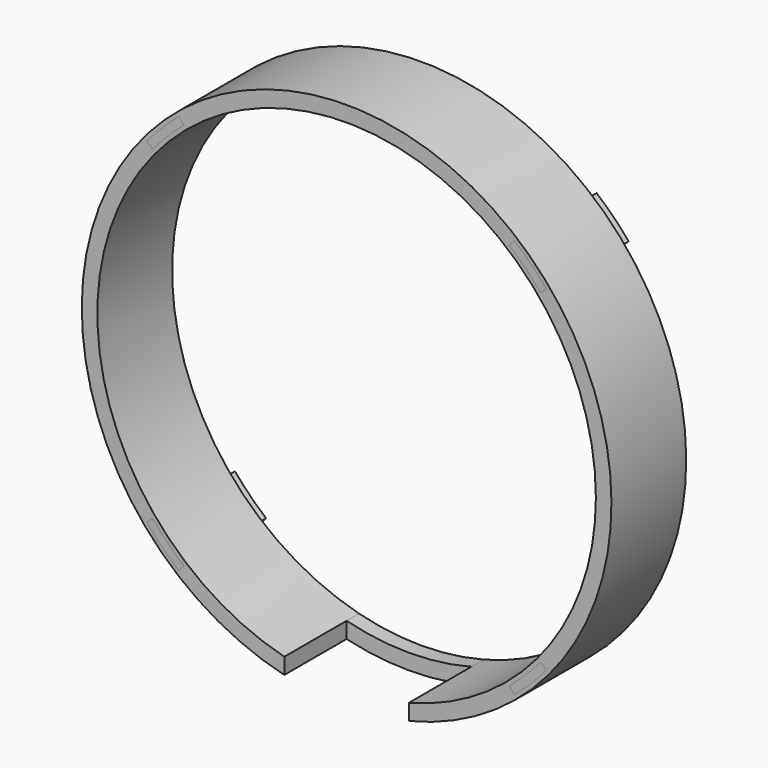
from build123d import *

# Parameters (mm, degrees)
F1_DEPTH = 30
F2_DEPTH = 3
F3_DEPTH = 30
F4_DEPTH = 30
F5_DEPTH = 5


with BuildPart() as f1:
    # F0 (on Front) → F1 (new body)
    with BuildSketch(Plane.XZ):
        with BuildLine():
            ThreePointArc((-20, -77.4596669241), (-48.9897948557, 63.2455532034), (80, 0))
            ThreePointArc((80, 0), (63.2455532034, -48.9897948557), (20, -77.4596669241))
            Line((20, -77.4596669241), (20, -82.6135582093))
            ThreePointArc((20, -82.6135582093), (66.8019460794, -52.5594901041), (85, 0))
            ThreePointArc((85, 0), (-52.5594901041, 66.8019460794), (-20, -82.6135582093))
            Line((-20, -82.6135582093), (-20, -77.4596669241))
        make_face()
        with BuildLine():
            ThreePointArc((-53.8334623112, -64.1562221112), (-59.2201929244, -59.2201929244), (-64.1562221112, -53.8334623112))
            Line((-64.1562221112, -53.8334623112), (-62.2411110034, -52.226493287))
            ThreePointArc((-62.2411110034, -52.226493287), (-57.4524259714, -57.4524259714), (-52.226493287, -62.2411110034))
            Line((-52.226493287, -62.2411110034), (-53.8334623112, -64.1562221112))
        make_face(mode=Mode.SUBTRACT)
        with BuildLine():
            Line((53.8334623112, -64.1562221112), (52.226493287, -62.2411110034))
            ThreePointArc((52.226493287, -62.2411110034), (57.4524259714, -57.4524259714), (62.2411110034, -52.226493287))
            Line((62.2411110034, -52.226493287), (64.1562221112, -53.8334623112))
            ThreePointArc((64.1562221112, -53.8334623112), (59.2201929244, -59.2201929244), (53.8334623112, -64.1562221112))
        make_face(mode=Mode.SUBTRACT)
        with BuildLine():
            ThreePointArc((-64.1562221112, 53.8334623112), (-59.2201929244, 59.2201929244), (-53.8334623112, 64.1562221112))
            Line((-53.8334623112, 64.1562221112), (-52.226493287, 62.2411110034))
            ThreePointArc((-52.226493287, 62.2411110034), (-57.4524259714, 57.4524259714), (-62.2411110034, 52.226493287))
            Line((-62.2411110034, 52.226493287), (-64.1562221112, 53.8334623112))
        make_face(mode=Mode.SUBTRACT)
        with BuildLine():
            ThreePointArc((53.8334623112, 64.1562221112), (59.2201929244, 59.2201929244), (64.1562221112, 53.8334623112))
            Line((64.1562221112, 53.8334623112), (62.2411110034, 52.226493287))
            ThreePointArc((62.2411110034, 52.226493287), (57.4524259714, 57.4524259714), (52.226493287, 62.2411110034))
            Line((52.226493287, 62.2411110034), (53.8334623112, 64.1562221112))
        make_face(mode=Mode.SUBTRACT)
        with BuildLine():
            ThreePointArc((20, -77.4596669241), (0, -80), (-20, -77.4596669241))
            Line((-20, -77.4596669241), (-20, -82.6135582093))
            ThreePointArc((-20, -82.6135582093), (0, -85), (20, -82.6135582093))
            Line((20, -82.6135582093), (20, -77.4596669241))
        make_face()
    extrude(amount=F1_DEPTH)

    # F0 (on Front) → F4 (cut)
    with BuildSketch(Plane.XZ):
        with BuildLine():
            ThreePointArc((20, -77.4596669241), (0, -80), (-20, -77.4596669241))
            Line((-20, -77.4596669241), (-20, -82.6135582093))
            ThreePointArc((-20, -82.6135582093), (0, -85), (20, -82.6135582093))
            Line((20, -82.6135582093), (20, -77.4596669241))
        make_face()
    extrude(amount=F4_DEPTH, mode=Mode.SUBTRACT)

    # F0 (on Front) → F5 (join)
    with BuildSketch(Plane.XZ):
        with BuildLine():
            ThreePointArc((20, -77.4596669241), (0, -80), (-20, -77.4596669241))
            Line((-20, -77.4596669241), (-20, -82.6135582093))
            ThreePointArc((-20, -82.6135582093), (0, -85), (20, -82.6135582093))
            Line((20, -82.6135582093), (20, -77.4596669241))
        make_face()
    extrude(amount=F5_DEPTH)


with BuildPart() as f2:
    # F0 (on Front) → F2 (new body)
    with BuildSketch(Plane.XZ):
        with BuildLine():
            Line((-52.226493287, 62.2411110034), (-53.8334623112, 64.1562221112))
            ThreePointArc((-53.8334623112, 64.1562221112), (-59.2201929244, 59.2201929244), (-64.1562221112, 53.8334623112))
            Line((-64.1562221112, 53.8334623112), (-62.2411110034, 52.226493287))
            ThreePointArc((-62.2411110034, 52.226493287), (-57.4524259714, 57.4524259714), (-52.226493287, 62.2411110034))
        make_face()
    extrude(amount=-F2_DEPTH)


with BuildPart() as f2b:
    # F0 (on Front) → F2, piece 2 (new body)
    with BuildSketch(Plane.XZ):
        with BuildLine():
            Line((62.2411110034, 52.226493287), (64.1562221112, 53.8334623112))
            ThreePointArc((64.1562221112, 53.8334623112), (59.2201929244, 59.2201929244), (53.8334623112, 64.1562221112))
            Line((53.8334623112, 64.1562221112), (52.226493287, 62.2411110034))
            ThreePointArc((52.226493287, 62.2411110034), (57.4524259714, 57.4524259714), (62.2411110034, 52.226493287))
        make_face()
    extrude(amount=-F2_DEPTH)


with BuildPart() as f2c:
    # F0 (on Front) → F2, piece 3 (new body)
    with BuildSketch(Plane.XZ):
        with BuildLine():
            ThreePointArc((62.2411110034, -52.226493287), (57.4524259714, -57.4524259714), (52.226493287, -62.2411110034))
            Line((52.226493287, -62.2411110034), (53.8334623112, -64.1562221112))
            ThreePointArc((53.8334623112, -64.1562221112), (59.2201929244, -59.2201929244), (64.1562221112, -53.8334623112))
            Line((64.1562221112, -53.8334623112), (62.2411110034, -52.226493287))
        make_face()
    extrude(amount=-F2_DEPTH)


with BuildPart() as f2d:
    # F0 (on Front) → F2, piece 4 (new body)
    with BuildSketch(Plane.XZ):
        with BuildLine():
            Line((-62.2411110034, -52.226493287), (-64.1562221112, -53.8334623112))
            ThreePointArc((-64.1562221112, -53.8334623112), (-59.2201929244, -59.2201929244), (-53.8334623112, -64.1562221112))
            Line((-53.8334623112, -64.1562221112), (-52.226493287, -62.2411110034))
            ThreePointArc((-52.226493287, -62.2411110034), (-57.4524259714, -57.4524259714), (-62.2411110034, -52.226493287))
        make_face()
    extrude(amount=-F2_DEPTH)


with BuildPart() as f3:
    # F0 (on Front) → F3 (new body)
    with BuildSketch(Plane.XZ):
        with BuildLine():
            Line((-52.226493287, 62.2411110034), (-53.8334623112, 64.1562221112))
            ThreePointArc((-53.8334623112, 64.1562221112), (-59.2201929244, 59.2201929244), (-64.1562221112, 53.8334623112))
            Line((-64.1562221112, 53.8334623112), (-62.2411110034, 52.226493287))
            ThreePointArc((-62.2411110034, 52.226493287), (-57.4524259714, 57.4524259714), (-52.226493287, 62.2411110034))
        make_face()
    extrude(amount=F3_DEPTH)


with BuildPart() as f3b:
    # F0 (on Front) → F3, piece 2 (new body)
    with BuildSketch(Plane.XZ):
        with BuildLine():
            Line((-62.2411110034, -52.226493287), (-64.1562221112, -53.8334623112))
            ThreePointArc((-64.1562221112, -53.8334623112), (-59.2201929244, -59.2201929244), (-53.8334623112, -64.1562221112))
            Line((-53.8334623112, -64.1562221112), (-52.226493287, -62.2411110034))
            ThreePointArc((-52.226493287, -62.2411110034), (-57.4524259714, -57.4524259714), (-62.2411110034, -52.226493287))
        make_face()
    extrude(amount=F3_DEPTH)


with BuildPart() as f3c:
    # F0 (on Front) → F3, piece 3 (new body)
    with BuildSketch(Plane.XZ):
        with BuildLine():
            ThreePointArc((62.2411110034, -52.226493287), (57.4524259714, -57.4524259714), (52.226493287, -62.2411110034))
            Line((52.226493287, -62.2411110034), (53.8334623112, -64.1562221112))
            ThreePointArc((53.8334623112, -64.1562221112), (59.2201929244, -59.2201929244), (64.1562221112, -53.8334623112))
            Line((64.1562221112, -53.8334623112), (62.2411110034, -52.226493287))
        make_face()
    extrude(amount=F3_DEPTH)


with BuildPart() as f3d:
    # F0 (on Front) → F3, piece 4 (new body)
    with BuildSketch(Plane.XZ):
        with BuildLine():
            Line((62.2411110034, 52.226493287), (64.1562221112, 53.8334623112))
            ThreePointArc((64.1562221112, 53.8334623112), (59.2201929244, 59.2201929244), (53.8334623112, 64.1562221112))
            Line((53.8334623112, 64.1562221112), (52.226493287, 62.2411110034))
            ThreePointArc((52.226493287, 62.2411110034), (57.4524259714, 57.4524259714), (62.2411110034, 52.226493287))
        make_face()
    extrude(amount=F3_DEPTH)


solid = Compound([f1.part, f2.part, f2b.part, f2c.part, f2d.part, f3.part, f3b.part, f3c.part, f3d.part])
